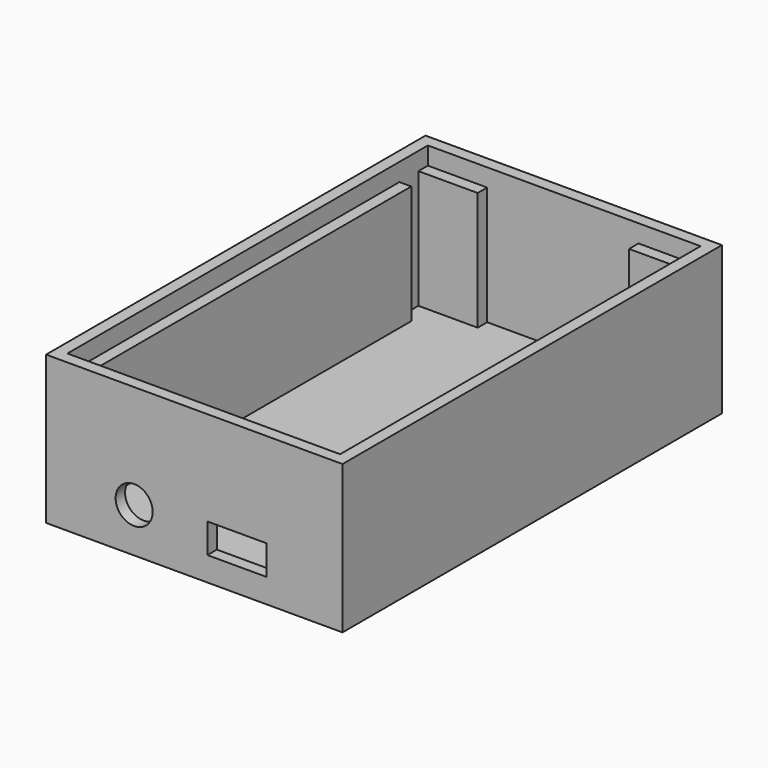
from build123d import *

# Parameters (mm, degrees)
F0_W     = 58.42
F0_H     = 96.52
F1_DEPTH = 2.54
F0_W_2   = 2.54
F0_H_2   = 2.54
F2_DEPTH = 31.75
F3_W     = 2.54
F3_H     = 5.08
F3_H_2   = 2.54
F3_W_2   = 10.16
F3_W_3   = 10.7568990868
F3_H_3   = 83.82
F4_DEPTH = 25.4
F5_R     = 3.96875
F5_W     = 12.7
F5_H     = 6.35
F6_DEPTH = 25.4


with BuildPart() as f1:
    # F0 (on Top) → F1 (new body)
    with BuildSketch(Plane.XY):
        Rectangle(F0_W, F0_H)
    extrude(amount=F1_DEPTH)

    # F0 (on Top) → F2 (join)
    with BuildSketch(Plane.XY):
        with Locations((-30.48, 49.53)):
            Rectangle(F0_W_2, F0_H_2)
        with Locations((0, 49.53)):
            Rectangle(F0_W, F0_H_2)
        with Locations((-30.48, 0)):
            Rectangle(F0_W_2, F0_H)
        with Locations((30.48, 49.53)):
            Rectangle(F0_W_2, F0_H_2)
        with Locations((-30.48, -49.53)):
            Rectangle(F0_W_2, F0_H_2)
        with Locations((30.48, 0)):
            Rectangle(F0_W_2, F0_H)
        with Locations((0, -49.53)):
            Rectangle(F0_W, F0_H_2)
        with Locations((30.48, -49.53)):
            Rectangle(F0_W_2, F0_H_2)
    extrude(amount=F2_DEPTH)

    # F3 (on face) → F4 (join)
    with BuildSketch(Plane.XY.offset(2.54)):
        with Locations((-27.94, 38.1)):
            Rectangle(F3_W, F3_H)
        with Locations((-27.94, 46.99)):
            Rectangle(F3_W, F3_H_2)
        with Locations((-21.59, 46.99)):
            Rectangle(F3_W_2, F3_H_2)
        with Locations((21.2915504566, 46.99)):
            Rectangle(F3_W_3, F3_H_2)
        with Locations((27.94, 46.99)):
            Rectangle(F3_W, F3_H_2)
        with Locations((27.94, 38.1)):
            Rectangle(F3_W, F3_H)
        with Locations((27.94, -6.35)):
            Rectangle(F3_W, F3_H_3)
        with Locations((-27.94, -6.35)):
            Rectangle(F3_W, F3_H_3)
    extrude(amount=F4_DEPTH)

    # F5 (on face) → F6 (cut)
    with BuildSketch(Plane.XZ.offset(50.8)):
        with Locations((-12.8904990852, 9.5123006031)):
            Circle(F5_R)
        with Locations((9.1495838234, 8.3475278727)):
            Rectangle(F5_W, F5_H)
    extrude(amount=-F6_DEPTH, mode=Mode.SUBTRACT)


solid = f1.part
